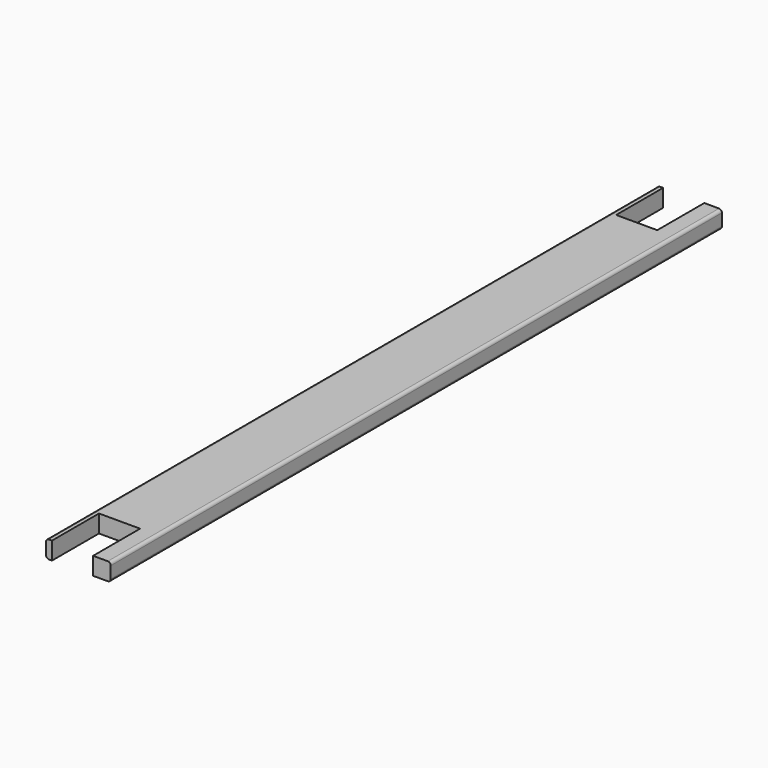
from build123d import *

# Parameters (mm, degrees)
F1_DEPTH = 1651
F2_W     = 88.9
F2_H     = 127
F3_DEPTH = 38.101
F4_W     = 88.9
F4_H     = 127
F5_DEPTH = 38.101


with BuildPart() as f1:
    # F0 (on Front) → F1 (new body)
    with BuildSketch(Plane.XZ):
        with BuildLine():
            ThreePointArc((-69.85, -12.7), (-67.990128, -17.190128), (-63.5, -19.05))
            Line((-63.5, -19.05), (63.5, -19.05))
            ThreePointArc((63.5, -19.05), (67.990128, -17.190128), (69.85, -12.7))
            Line((69.85, -12.7), (69.85, 12.7))
            ThreePointArc((69.85, 12.7), (67.990128, 17.190128), (63.5, 19.05))
            Line((63.5, 19.05), (-63.5, 19.05))
            ThreePointArc((-63.5, 19.05), (-67.990128, 17.190128), (-69.85, 12.7))
            Line((-69.85, 12.7), (-69.85, -12.7))
        make_face()
    extrude(amount=F1_DEPTH)

    # F2 (on face) → F3 (cut, through all)
    with BuildSketch(Plane.XY.offset(19.05)):
        with Locations((-12.7, -63.5)):
            Rectangle(F2_W, F2_H)
    extrude(amount=-F3_DEPTH, mode=Mode.SUBTRACT)

    # F4 (on face) → F5 (cut, through all)
    with BuildSketch(Plane.XY.offset(19.05)):
        with Locations((-12.7, -1587.5)):
            Rectangle(F4_W, F4_H)
    extrude(amount=-F5_DEPTH, mode=Mode.SUBTRACT)


solid = f1.part
